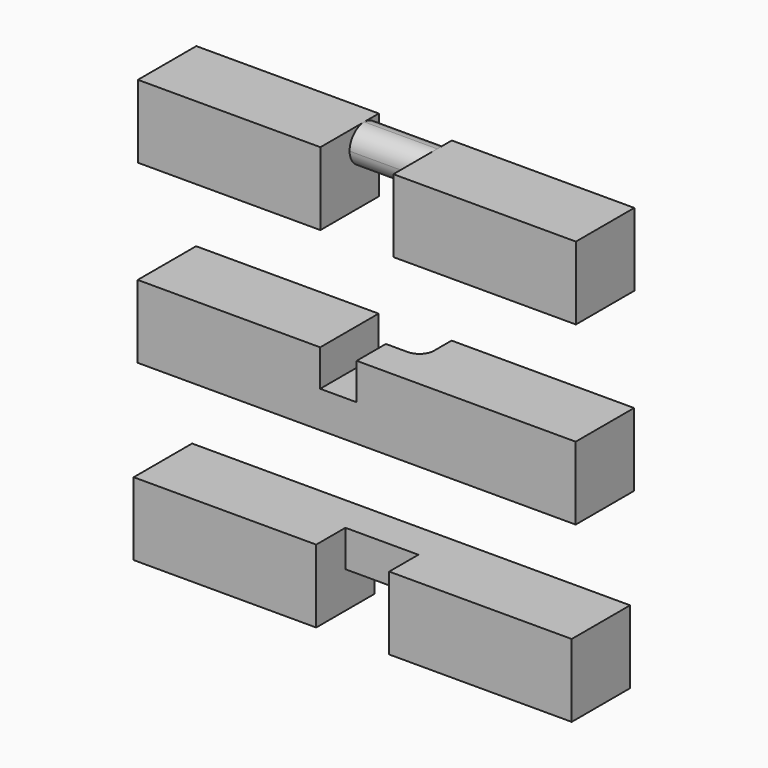
from build123d import *

# Parameters (mm, degrees)
F0_W      = 60
F0_H      = 10
F1_DEPTH  = 10
F3_DEPTH  = 10
F4_W      = 10
F4_H      = 5
F5_DEPTH  = 5
F7_DEPTH  = 5
F6_W      = 5
F6_H      = 5
F8_DEPTH  = 10
F9_R      = 2
F11_DEPTH = 35
F12_DEPTH = 25
F14_DEPTH = 25


with BuildPart() as f1:
    # F0 (on Front) → F1 (new body)
    with BuildSketch(Plane.XZ):
        with Locations((-16.7842754163, 43.1144291859)):
            Rectangle(F0_W, F0_H)
    extrude(amount=F1_DEPTH)

    # F10 (on face) → F11 (cut)
    with BuildSketch(Plane(origin=(-46.7842754163, 0, 0), x_dir=(0, -1, 0), z_dir=(-1, 0, 0))):
        with BuildLine():
            ThreePointArc((0, 45.6144291859), (0.732233047, 47.3821961388), (2.5, 48.1144291859))
            Line((2.5, 48.1144291859), (0, 48.1144291859))
            Line((0, 48.1144291859), (0, 45.6144291859))
        make_face()
        with BuildLine():
            Line((5, 45.6144291859), (5, 48.1144291859))
            Line((5, 48.1144291859), (2.5, 48.1144291859))
            ThreePointArc((2.5, 48.1144291859), (4.267766953, 47.3821961388), (5, 45.6144291859))
        make_face()
        with BuildLine():
            Line((0, 43.1144291859), (2.5, 43.1144291859))
            ThreePointArc((2.5, 43.1144291859), (0.732233047, 43.8466622329), (0, 45.6144291859))
            Line((0, 45.6144291859), (0, 43.1144291859))
        make_face()
        with BuildLine():
            Line((5, 43.1144291859), (5, 45.6144291859))
            ThreePointArc((5, 45.6144291859), (4.267766953, 43.8466622329), (2.5, 43.1144291859))
            Line((2.5, 43.1144291859), (5, 43.1144291859))
        make_face()
        Polygon((10, 38.1144291859), (10, 48.1144291859), (5, 48.1144291859), (5, 45.6144291859), (5, 43.1144291859), (2.5, 43.1144291859), (0, 43.1144291859), (0, 38.1144291859), align=None)
    extrude(amount=-F11_DEPTH, mode=Mode.SUBTRACT)

    # F12 (cut): a face of the model
    f12_faces = [f1.faces().sort_by_distance(p)[0] for p in [
        (-46.7842754163, -2.5, 45.6144291859),
    ]]
    extrude(f12_faces, amount=-F12_DEPTH, mode=Mode.SUBTRACT)

    # F13 (on face) → F14 (join)
    with BuildSketch(Plane(origin=(-21.7842754163, 0, 0), x_dir=(0, -1, 0), z_dir=(-1, 0, 0))):
        Polygon((10, 48.1144291859), (2.5, 48.1144291859), (0, 48.1144291859), (0, 38.1144291859), (10, 38.1144291859), align=None)
    extrude(amount=F14_DEPTH)


with BuildPart() as f1b:
    # F0 (on Front) → F1, piece 2 (new body)
    with BuildSketch(Plane.XZ):
        with Locations((-16.814519912, 18.9717739075)):
            Rectangle(F0_W, F0_H)
    extrude(amount=F1_DEPTH)

    # F6 (on face) → F7 (cut)
    with BuildSketch(Plane.XY.offset(23.9717739075)):
        Polygon((-21.814519912, 0), (-21.814519912, -10), (-16.814519912, -10), (-16.814519912, -5), (-16.814519912, 0), align=None)
    extrude(amount=-F7_DEPTH, mode=Mode.SUBTRACT)

    # F6 (on face) → F8 (cut)
    with BuildSketch(Plane.XY.offset(23.9717739075)):
        with Locations((-14.314519912, -2.5)):
            Rectangle(F6_W, F6_H)
    extrude(amount=-F8_DEPTH, mode=Mode.SUBTRACT)

    # F9
    f9_edges = [f1b.edges().sort_by_distance(p)[0] for p in [
        (-11.81452, -5, 18.971774),
    ]]
    fillet(f9_edges, radius=F9_R)


with BuildPart() as f1c:
    # F0 (on Front) → F1, piece 3 (new body)
    with BuildSketch(Plane.XZ):
        with Locations((-17.3588742316, -5)):
            Rectangle(F0_W, F0_H)
    extrude(amount=F1_DEPTH)

    # F2 (on face) → F3 (cut)
    with BuildSketch(Plane.XY):
        Polygon((-22.3588742316, -5), (-22.3588742316, -10), (-17.3588742316, -10), (-12.3588742316, -10), (-12.3588742316, -5), align=None)
    extrude(amount=-F3_DEPTH, mode=Mode.SUBTRACT)

    # F4 (on face) → F5 (cut)
    with BuildSketch(Plane.XZ.offset(5)):
        with Locations((-17.3588742316, -7.5)):
            Rectangle(F4_W, F4_H)
    extrude(amount=-F5_DEPTH, mode=Mode.SUBTRACT)


solid = Compound([f1.part, f1b.part, f1c.part])
